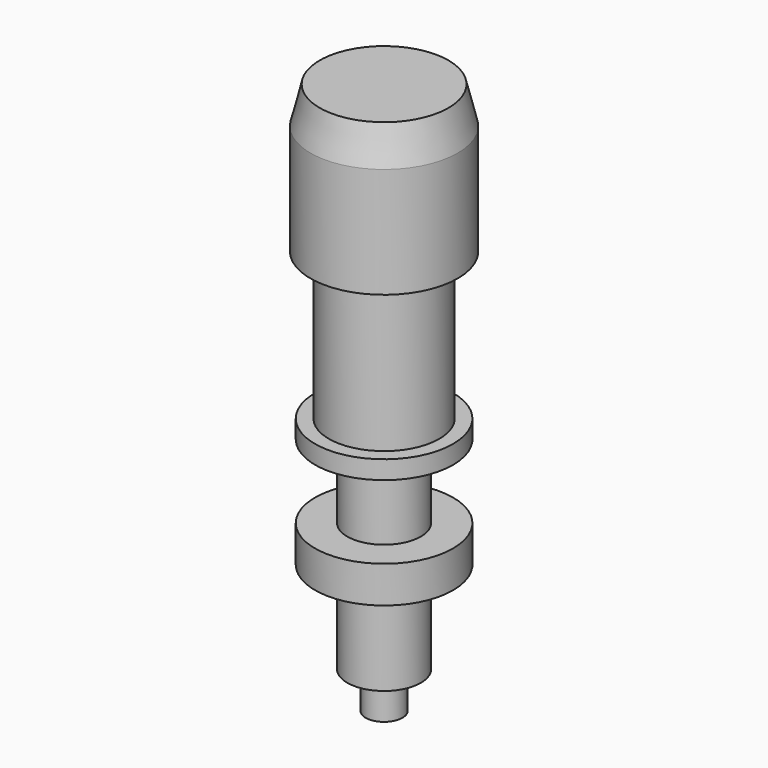
from build123d import *

# Parameters (mm, degrees)
CYLINDER082_R     = 2
CYLINDER082_DEPTH = 28
CYLINDER083_R     = 3.75
CYLINDER083_DEPTH = 2
CYLINDER084_R     = 3.75
CYLINDER084_DEPTH = 1
CYLINDER085_R     = 3
CYLINDER085_DEPTH = 8
CYLINDER086_R     = 4
CYLINDER086_DEPTH = 6
CYLINDER087_R     = 1
CYLINDER087_DEPTH = 2


with BuildPart() as cylinder082:
    # Cylinder082 → Cylinder082 (new body)
    with BuildSketch(Plane.XY):
        Circle(CYLINDER082_R)
    extrude(amount=CYLINDER082_DEPTH)


with BuildPart() as cylinder083:
    # Cylinder083 → Cylinder083 (new body)
    with BuildSketch(Plane.XY.offset(5)):
        Circle(CYLINDER083_R)
    extrude(amount=CYLINDER083_DEPTH)


with BuildPart() as cylinder084:
    # Cylinder084 → Cylinder084 (new body)
    with BuildSketch(Plane.XY.offset(11)):
        Circle(CYLINDER084_R)
    extrude(amount=CYLINDER084_DEPTH)


with BuildPart() as cylinder085:
    # Cylinder085 → Cylinder085 (new body)
    with BuildSketch(Plane.XY.offset(12)):
        Circle(CYLINDER085_R)
    extrude(amount=CYLINDER085_DEPTH)


with BuildPart() as cylinder086:
    # Cylinder086 → Cylinder086 (new body)
    with BuildSketch(Plane.XY.offset(20)):
        Circle(CYLINDER086_R)
    extrude(amount=CYLINDER086_DEPTH)


with BuildPart() as fusion025:
    # Cone001 → Cone001 (revolve)
    with BuildSketch(Plane(origin=(0, 0, 26), x_dir=(1, 0, 0), z_dir=(0, -1, 0))):
        Polygon((0, 0), (4, 0), (3.5, 2), (0, 2), align=None)
    revolve(axis=Axis((0, 0, 26), (0, 0, 1)))

    # Fusion025: union Cylinder082, Cylinder083, Cylinder084, Cylinder085, Cylinder086
    add(cylinder082.part)
    add(cylinder083.part)
    add(cylinder084.part)
    add(cylinder085.part)
    add(cylinder086.part)


with BuildPart() as obj1:
    # Cylinder087 → Cylinder087 (new body)
    with BuildSketch(Plane.XY.offset(-2)):
        Circle(CYLINDER087_R)
    extrude(amount=CYLINDER087_DEPTH)

    # Fusion026: union Fusion025
    add(fusion025.part)


with BuildPart() as obj1_1:
    # Fusion026 placement: moved
    add(obj1.part.moved(Location((137.5, 137.5, 112.5))))


solid = obj1_1.part
